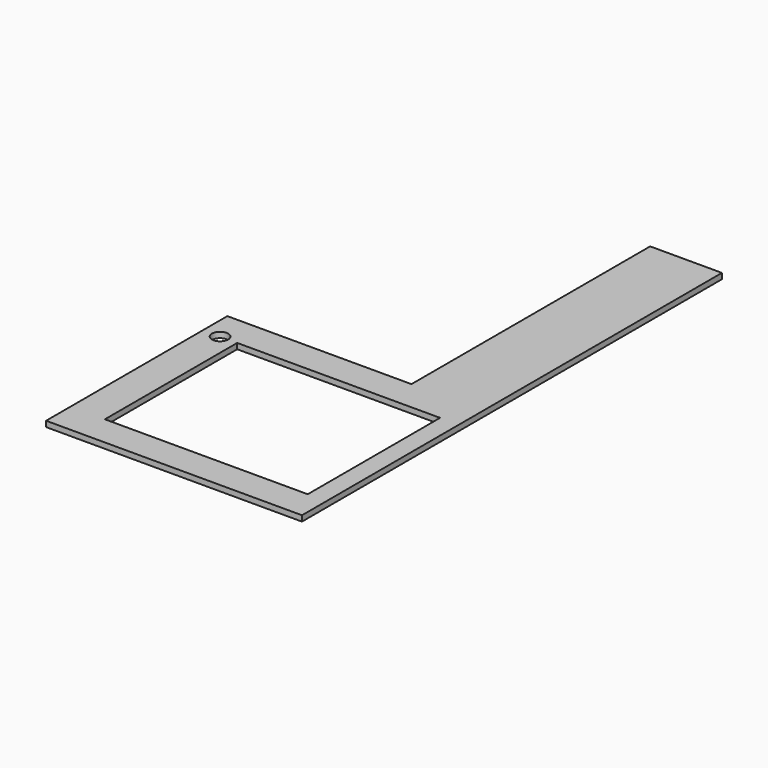
from build123d import *

# Parameters (mm, degrees)
F1_DEPTH = 9
F2_W     = 325
F2_H     = 265
F2_R     = 13
F3_DEPTH = 25


with BuildPart() as f1:
    # F0 (on Top) → F1 (new body)
    with BuildSketch(Plane.XY):
        Polygon((410, 0), (410, 841), (295, 841), (295, 363), (0, 363), (0, 0), align=None)
    extrude(amount=F1_DEPTH)

    # F2 (on face) → F3 (cut)
    with BuildSketch(Plane.XY.offset(9)):
        with Locations((217.5, 181.5)):
            Rectangle(F2_W, F2_H)
        with Locations((27.5, 314)):
            Circle(F2_R)
    extrude(amount=-F3_DEPTH, mode=Mode.SUBTRACT)


solid = f1.part
